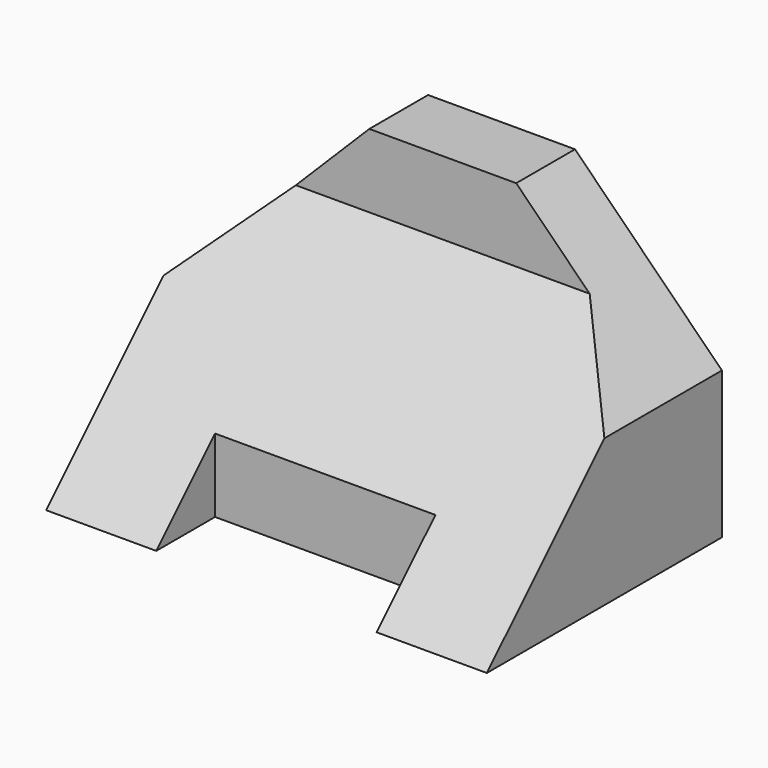
from build123d import *

# Parameters (mm, degrees)
F0_W     = 12.7
F0_H     = 25.4
F1_DEPTH = 76.2
F2_W     = 38.1
F2_H     = 12.7
F3_DEPTH = 50.801
F5_DEPTH = 50.801


with BuildPart() as f1:
    # F0 (on Right) → F1 (new body)
    with BuildSketch(Plane.YZ):
        Polygon((38.1, 38.1), (0, 0), (38.1, 0), (38.1, 25.4), align=None)
        with Locations((44.45, 12.7)):
            Rectangle(F0_W, F0_H)
        Polygon((38.1, 50.8), (38.1, 38.1), (38.1, 25.4), (50.8, 25.4), (50.8, 50.8), align=None)
    extrude(amount=F1_DEPTH)

    # F2 (on face) → F3 (cut, through all)
    with BuildSketch(Plane(origin=(0, 0, 0), x_dir=(1, 0, 0), z_dir=(0, 0, -1))):
        with Locations((38.1, -6.35)):
            Rectangle(F2_W, F2_H)
    extrude(amount=-F3_DEPTH, mode=Mode.SUBTRACT)

    # F4 (on face) → F5 (cut, through all)
    with BuildSketch(Plane(origin=(0, 50.8, 0), x_dir=(-1, 0, 0), z_dir=(0, 1, 0))):
        Polygon((-76.2, 38.1), (-63.5, 38.1), (-50.8, 50.8), (-76.2, 50.8), align=None)
        Polygon((-25.4, 50.8), (-12.7, 38.1), (0, 38.1), (0, 50.8), align=None)
        Polygon((0, 38.1), (-12.7, 38.1), (0, 25.4), align=None)
        Polygon((-76.2, 25.4), (-63.5, 38.1), (-76.2, 38.1), align=None)
    extrude(amount=-F5_DEPTH, mode=Mode.SUBTRACT)


solid = f1.part
